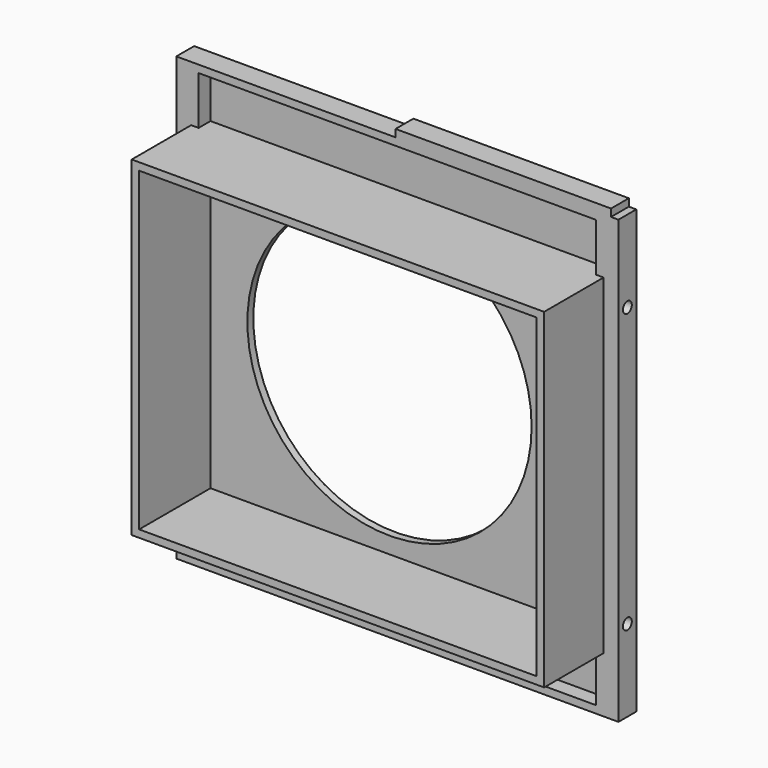
from build123d import *

# Parameters (mm, degrees)
SKETCH016_R     = 38.25
PAD010_DEPTH    = 2
PAD010_FACE11_R = 38.25
PAD011_DEPTH    = 4
SKETCH017_W     = 107
SKETCH017_H     = 115
POCKET004_DEPTH = 4
SKETCH018_R     = 1.5
POCKET005_DEPTH = 5
SKETCH019_R     = 1.5
POCKET006_DEPTH = 5
SKETCH020_W     = 107
SKETCH020_H     = 2
PAD012_DEPTH    = 4
SKETCH021_W     = 111
SKETCH021_H     = 89
SKETCH021_W_2   = 107
SKETCH021_H_2   = 85
PAD013_DEPTH    = 20


with BuildPart() as part:
    # Sketch016 → Pad010 (new body)
    with BuildSketch(Plane.XZ.offset(32.5)):
        Polygon((59.5, -59.5), (59.5, 59.5), (57.5, 59.5), (57.5, 61.5), (-0.5, 61.5), (-0.5, 59.5), (-59.5, 59.5), (-59.5, -59.5), align=None)
        with Locations((-5.32, 0.16)):
            Circle(SKETCH016_R, mode=Mode.SUBTRACT)
    extrude(amount=PAD010_DEPTH)

    # Pad010 Face11 → Pad011 (add)
    with BuildSketch(Plane(origin=(2.867427, -34.5, 0.648984), x_dir=(-1, 0, 0), z_dir=(0, -1, 0))):
        Polygon((-56.632573, 60.148984), (-56.632573, -58.851016), (-54.632573, -58.851016), (-54.632573, -60.851016), (3.367427, -60.851016), (3.367427, -58.851016), (62.367427, -58.851016), (62.367427, 60.148984), align=None)
        with Locations((8.187427, 0.488984)):
            Circle(PAD010_FACE11_R, mode=Mode.SUBTRACT)
    extrude(amount=PAD011_DEPTH)

    # Sketch017 (on Face14 of Pad011) → Pocket004 (cut)
    with BuildSketch(Plane.XZ.offset(38.5)):
        Rectangle(SKETCH017_W, SKETCH017_H)
    extrude(amount=-POCKET004_DEPTH, mode=Mode.SUBTRACT)

    # Sketch018 (on Face17 of Pocket003) → Pocket005 (cut)
    with BuildSketch(Plane(origin=(61.5, 0, 0), x_dir=(0, 0, 1), z_dir=(1, 0, 0))):
        with Locations((-37.5, 35.5)):
            Circle(SKETCH018_R)
        with Locations((37.5, 35.5)):
            Circle(SKETCH018_R)
    extrude(amount=-POCKET005_DEPTH, mode=Mode.SUBTRACT)

    # Sketch019 (on Face23 of Pocket005) → Pocket006 (cut)
    with BuildSketch(Plane(origin=(-59.5, 0, 0), x_dir=(0, 0, -1), z_dir=(-1, 0, 0))):
        with Locations((-37.5, 35.5)):
            Circle(SKETCH019_R)
        with Locations((37.5, 35.5)):
            Circle(SKETCH019_R)
    extrude(amount=-POCKET006_DEPTH, mode=Mode.SUBTRACT)

    # Sketch020 (on Face26 of Pocket006) → Pad012 (join)
    with BuildSketch(Plane.XZ.offset(34.5)):
        with Locations((0, 43.5)):
            Rectangle(SKETCH020_W, SKETCH020_H)
        with Locations((0, -43.5)):
            Rectangle(SKETCH020_W, SKETCH020_H)
    extrude(amount=PAD012_DEPTH)

    # Sketch021 (on Face15 of Pad012) → Pad013 (join)
    with BuildSketch(Plane.XZ.offset(38.5)):
        Rectangle(SKETCH021_W, SKETCH021_H)
        Rectangle(SKETCH021_W_2, SKETCH021_H_2, mode=Mode.SUBTRACT)
    extrude(amount=PAD013_DEPTH)


solid = part.part
